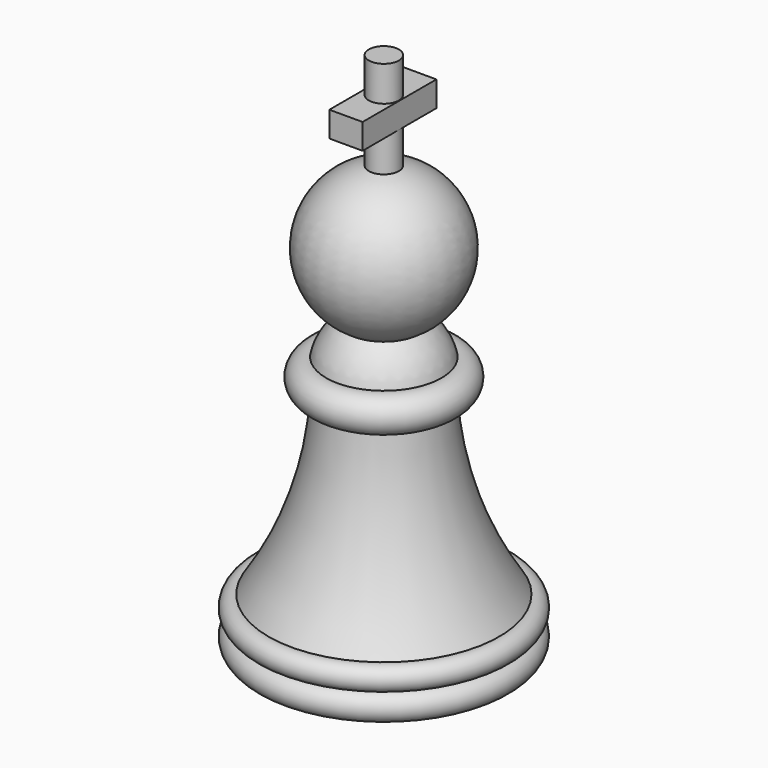
from build123d import *

# Parameters (mm, degrees)
F2_W     = 5.4845558479
F2_H     = 4.1940696537
F3_DEPTH = 7.62
F4_DEPTH = 7.62


with BuildPart() as f1:
    # F0 (on Front) → F1 (revolve)
    with BuildSketch(Plane.XZ):
        with BuildLine():
            Line((0, -42.908590287), (0, 33.291409713))
            Line((0, 33.291409713), (0, 43.8764546061))
            Line((0, 43.8764546061), (-2.4840172301, 43.8764546061))
            Line((-2.4840172301, 43.8764546061), (-2.4840172301, 27.7963530089))
            ThreePointArc((-2.4840172301, 27.7963530089), (-11.9691992214, 17.8062450646), (-6.0997897262, 5.3434618149))
            ThreePointArc((-6.0997897262, 5.3434618149), (-8.2990792991, 2.9837002988), (-9.525, 0))
            ThreePointArc((-9.525, 0), (-12.8362910364, -2.9035885818), (-9.525, -5.8071771637))
            ThreePointArc((-9.525, -5.8071771637), (-12.3799137677, -20.7966104823), (-19.05, -34.5204435289))
            ThreePointArc((-19.05, -34.5204435289), (-21.3126606479, -36.2900125781), (-19.3814132999, -38.4163454563))
            ThreePointArc((-19.3814132999, -38.4163454563), (-21.3022265869, -40.816399922), (-19.05, -42.908590287))
            Line((-19.05, -42.908590287), (0, -42.908590287))
        make_face()
        with BuildLine():
            ThreePointArc((-19.05, -38.3918955922), (-19.2151876171, -38.4111559162), (-19.3814132999, -38.4163454563))
            ThreePointArc((-19.3814132999, -38.4163454563), (-19.2161569824, -38.3980163527), (-19.05, -38.3918955922))
        make_face(mode=Mode.SUBTRACT)
        with BuildLine():
            ThreePointArc((-19.05, -38.3918955922), (-19.2161569824, -38.3980163527), (-19.3814132999, -38.4163454563))
            ThreePointArc((-19.3814132999, -38.4163454563), (-19.2151876171, -38.4111559162), (-19.05, -38.3918955922))
        make_face()
    revolve(axis=Axis((0, 0, -4.808590287), (0, 0, -1)))

    # F2 (on Front) → F3 (join)
    with BuildSketch(Plane.XZ):
        with Locations((-0.161310425, 35.9722394496)):
            Rectangle(F2_W, F2_H)
    extrude(amount=F3_DEPTH)

    # F2 (on Front) → F4 (join)
    with BuildSketch(Plane.XZ):
        with Locations((-0.161310425, 35.9722394496)):
            Rectangle(F2_W, F2_H)
    extrude(amount=-F4_DEPTH)


solid = f1.part
